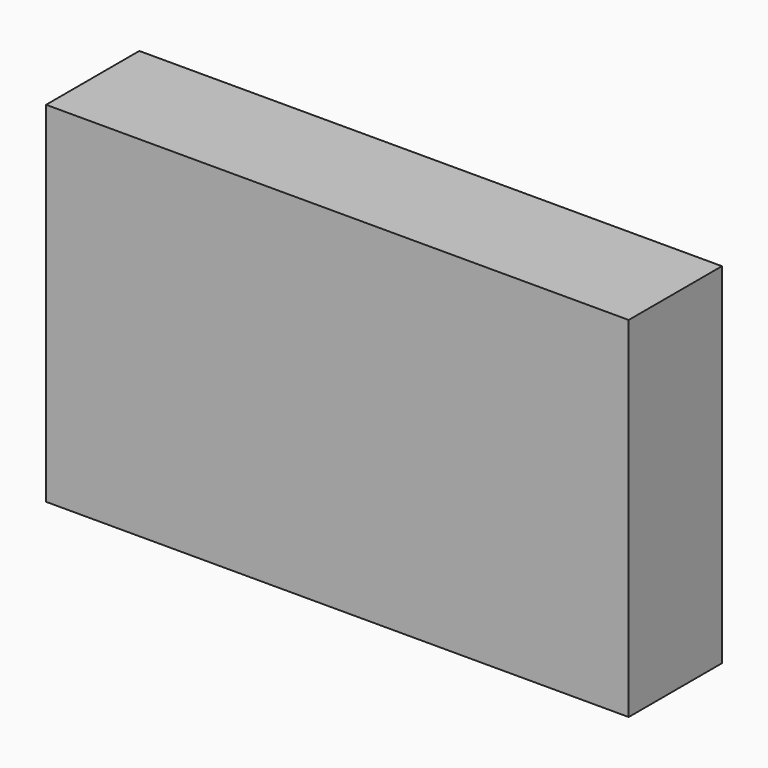
from build123d import *

# Parameters (mm, degrees)
F0_W     = 127
F0_H     = 25.4
F1_DEPTH = 76.2
F2_W     = 121.92
F2_H     = 12.7
F2_H_2   = 12.9923447967
F2_H_3   = 12.140389061
F2_H_4   = 18.7179725617
F3_DEPTH = 23.368


with BuildPart() as f1:
    # F0 (on Top) → F1 (new body)
    with BuildSketch(Plane.XY):
        with Locations((-21.1246134713, 39.178602326)):
            Rectangle(F0_W, F0_H)
    extrude(amount=F1_DEPTH)

    # F2 (on face) → F3 (cut)
    with BuildSketch(Plane(origin=(0, 51.878602326, 0), x_dir=(-1, 0, 0), z_dir=(0, 1, 0))):
        with Locations((21.1696714079, 68.3048000395)):
            Rectangle(F2_W, F2_H)
        with Locations((20.9566816604, 51.8378093839)):
            Rectangle(F2_W, F2_H_2)
        with Locations((20.9566816604, 32.0298054695)):
            Rectangle(F2_W, F2_H_3)
        with Locations((20.9566816604, 9.3589862809)):
            Rectangle(F2_W, F2_H_4)
    extrude(amount=-F3_DEPTH, mode=Mode.SUBTRACT)


solid = f1.part
